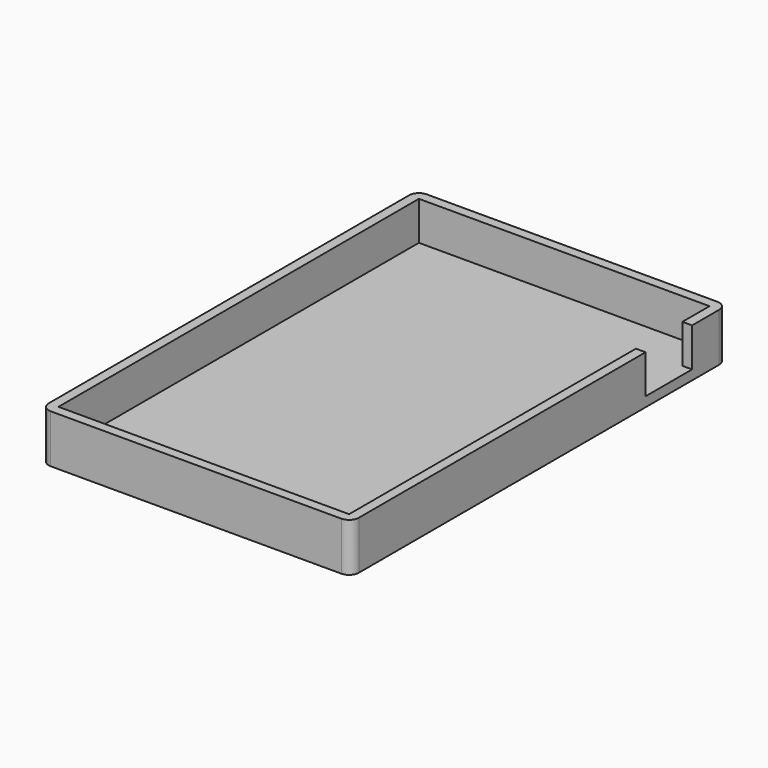
from build123d import *

# Parameters (mm, degrees)
PAD_DEPTH       = 10
SKETCH_W        = 60
SKETCH_H        = 93
POCKET_DEPTH    = 8
SKETCH005_W     = 12
SKETCH005_H     = 8
POCKET003_DEPTH = 2


with BuildPart() as part:
    # Sketch001 → Pad (new body)
    with BuildSketch(Plane.XY):
        with BuildLine():
            ThreePointArc((0, 2), (-1.414214, 1.414214), (-2, 0))
            Line((-2, 0), (-2, -93))
            ThreePointArc((-2, -93), (-1.414207, -94.414201), (0, -94.999981))
            Line((0, -94.999981), (60, -94.999981))
            ThreePointArc((60, -94.999981), (61.414214, -94.414194), (62, -92.99998))
            Line((62, 0), (62, -92.99998))
            ThreePointArc((62, 0), (61.414214, 1.414214), (60, 2))
            Line((0, 2), (60, 2))
        make_face()
    extrude(amount=PAD_DEPTH)

    # Sketch (on Face10 of Pad) → Pocket (cut)
    with BuildSketch(Plane.XY.offset(10)):
        with Locations((30, -46.5)):
            Rectangle(SKETCH_W, SKETCH_H)
    extrude(amount=-POCKET_DEPTH, mode=Mode.SUBTRACT)

    # Sketch005 (on Face2 of Pocket) → Pocket003 (cut)
    with BuildSketch(Plane.YZ.offset(62)):
        with Locations((-13, 6)):
            Rectangle(SKETCH005_W, SKETCH005_H)
    extrude(amount=-POCKET003_DEPTH, mode=Mode.SUBTRACT)


solid = part.part
